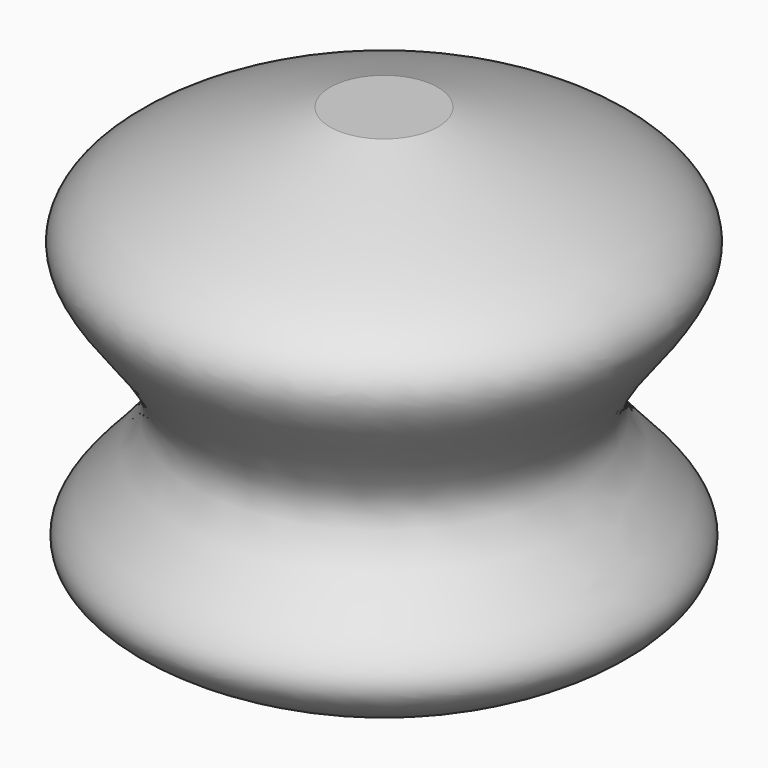
from build123d import *


with BuildPart() as f1:
    # F0 (on Front) → F1 (revolve)
    with BuildSketch(Plane.XZ):
        with BuildLine():
            Line((8.6027961224, 35.1402238011), (0, 35.1402238011))
            Line((0, 35.1402238011), (0, -37.7647988498))
            Line((0, -37.7647988498), (24.0586679429, -37.7647988498))
            add(Edge.make_bspline(
                [(24.0586679429, -37.7647988498), (33.2111823503, -33.6268576739), (51.3202652001, -25.439564407), (19.0986166192, -6.7630290697), (56.3881077654, 19.5897404815), (25.6014683115, 29.608449303), (8.6027961224, 35.1402238011)],
                knots=[0, 0, 0, 0, 0.2284635501, 0.4520359295, 0.6974446783, 1, 1, 1, 1], degree=3))
        make_face()
    revolve(axis=Axis((0, 0, -1.3122875243), (0, 0, -1)))


solid = f1.part
